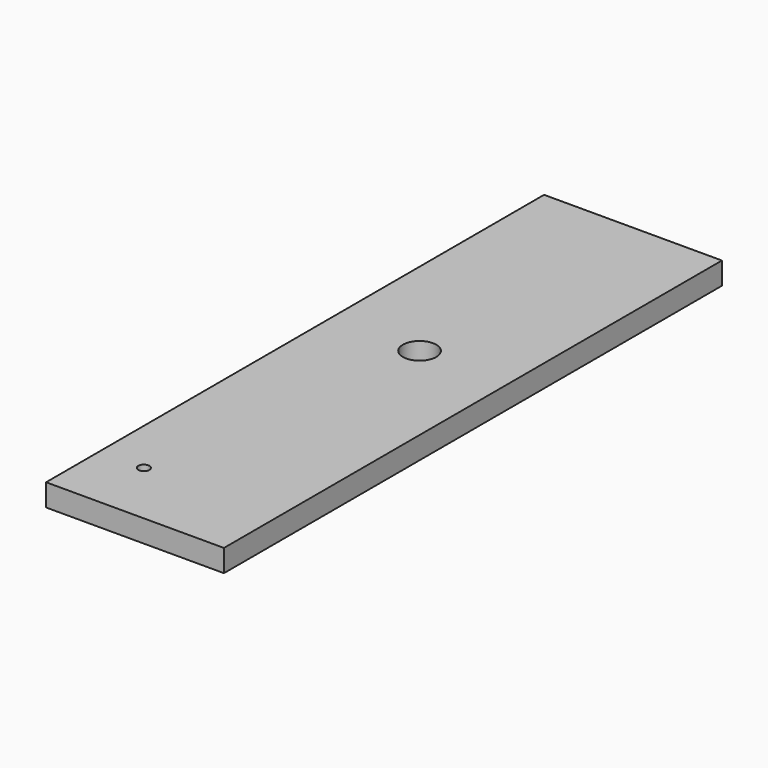
from build123d import *

# Parameters (mm, degrees)
F0_W     = 101.6
F0_H     = 355.6
F0_R     = 3.175
F0_R_2   = 9.525
F1_DEPTH = 12.7
F2_R     = 3.175
F3_DEPTH = 12.7


with BuildPart() as f1:
    # F0 (on Top) → F1 (new body)
    with BuildSketch(Plane.XY):
        with Locations((0, 47.119086)):
            Rectangle(F0_W, F0_H)
        with Locations((-25.4, -92.580914)):
            Circle(F0_R, mode=Mode.SUBTRACT)
        with Locations((0, 72.519086)):
            Circle(F0_R_2, mode=Mode.SUBTRACT)
    extrude(amount=F1_DEPTH)

    # F2 (on face) → F3 (cut)
    with BuildSketch(Plane(origin=(0, 224.919086, 0), x_dir=(-1, 0, 0), z_dir=(0, 1, 0))):
        with Locations((-25.4, 6.35)):
            Circle(F2_R)
        with Locations((0, 6.35)):
            Circle(F2_R)
        with Locations((25.4, 6.35)):
            Circle(F2_R)
    extrude(amount=-F3_DEPTH, mode=Mode.SUBTRACT)


solid = f1.part
